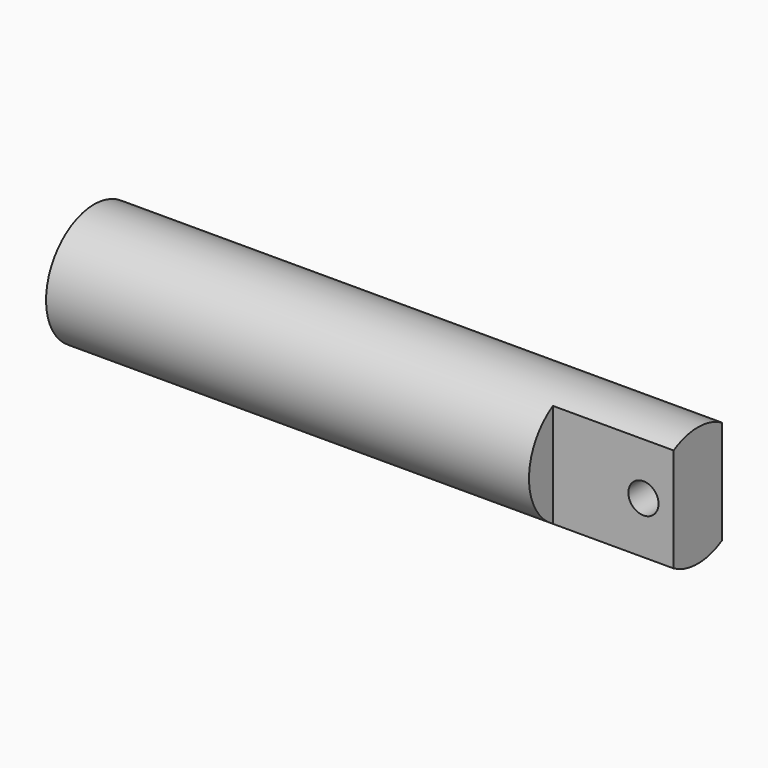
from build123d import *

# Parameters (mm, degrees)
F0_W     = 127
F0_H     = 12.6365
F2_W     = 25.4
F2_H     = 9.071429
F2_H_2   = 13.178508
F3_DEPTH = 6350
F4_R     = 3.175
F5_DEPTH = 18.9875


with BuildPart() as f1:
    # F0 (on Front) → F1 (revolve)
    with BuildSketch(Plane.XZ):
        with Locations((-63.5, 6.31825)):
            Rectangle(F0_W, F0_H)
    revolve(axis=Axis((-63.5, 0, 0), (1, 0, 0)))

    # F2 (on Top) → F3 (cut, symmetric)
    with BuildSketch(Plane.XY):
        with Locations((-12.7, 10.885714)):
            Rectangle(F2_W, F2_H)
        with Locations((-12.7, -12.939254)):
            Rectangle(F2_W, F2_H_2)
    extrude(amount=F3_DEPTH, both=True, mode=Mode.SUBTRACT)

    # F4 (on face) → F5 (cut, through all)
    with BuildSketch(Plane(origin=(0, 6.35, 0), x_dir=(-1, 0, 0), z_dir=(0, 1, 0))):
        with Locations((6.35, 0)):
            Circle(F4_R)
    extrude(amount=-F5_DEPTH, mode=Mode.SUBTRACT)

    # F6 (on Front) → F7 (revolve, cut)
    with BuildSketch(Plane.XZ):
        with BuildLine():
            Line((-146.05, 0), (-120.65, 0))
            ThreePointArc((-120.65, 0), (-133.35, 12.7), (-146.05, 0))
        make_face()
    revolve(axis=Axis((-133.35, 0, 0), (1, 0, 0)), mode=Mode.SUBTRACT)


solid = f1.part
